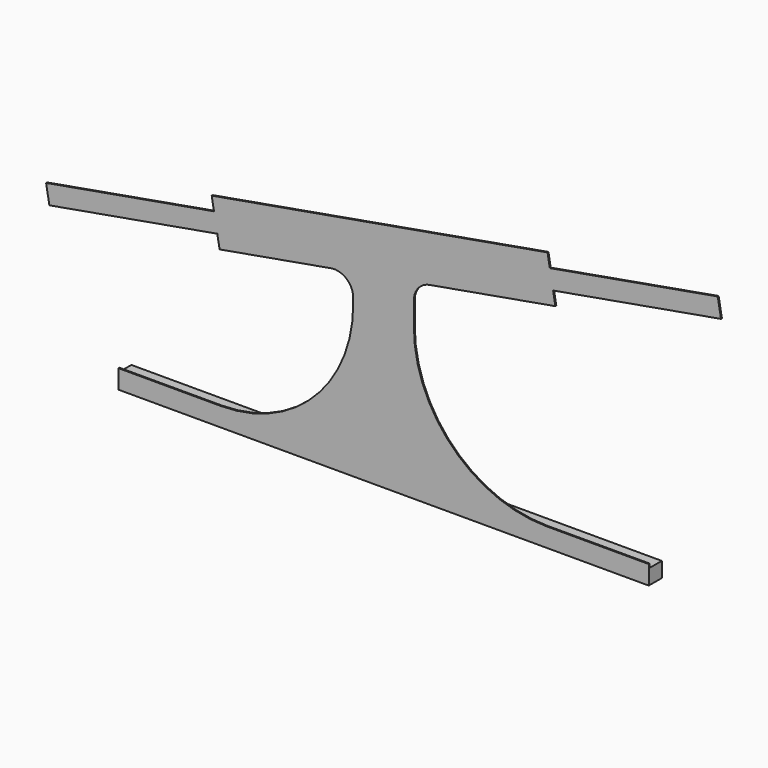
from build123d import *

# Parameters (mm, degrees)
F1_DEPTH = 3
F2_R     = 50
F3_W     = 1400
F3_H     = 40
F4_DEPTH = 40


with BuildPart() as f1:
    # F0 (on Front) → F1 (new body)
    with BuildSketch(Plane.XZ):
        with BuildLine():
            Line((80, 503.1805617435), (-80, 474.9682448302))
            Line((-80, 474.9682448302), (-80, 400))
            ThreePointArc((-80, 400), (-182.5126265847, 152.5126265847), (-430, 50))
            Line((-430, 50), (-700, 50))
            Line((-700, 50), (-700, 0))
            Line((-700, 0), (700, 0))
            Line((700, 0), (700, 50))
            Line((700, 50), (430, 50))
            ThreePointArc((430, 50), (182.5126265847, 152.5126265847), (80, 400))
            Line((80, 400), (80, 503.1805617435))
        make_face()
        with BuildLine():
            Line((-881.9857732693, 369.0964462745), (-492.5372057432, 437.7667363276))
            ThreePointArc((-492.5372057432, 437.7667363276), (-502.2519540362, 461.4394293899), (-501.2196146265, 487.0071239782))
            Line((-501.2196146265, 487.0071239782), (-890.6681821527, 418.3368339251))
            Line((-890.6681821527, 418.3368339251), (-881.9857732693, 369.0964462745))
        make_face()
        with BuildLine():
            Line((-438.8222844138, 447.2381262246), (-443.1634888555, 471.8583200499))
            Line((-443.1634888555, 471.8583200499), (-447.5046932972, 496.4785138752))
            Line((-447.5046932972, 496.4785138752), (-501.2196146265, 487.0071239782))
            ThreePointArc((-501.2196146265, 487.0071239782), (-502.2519540362, 461.4394293899), (-492.5372057432, 437.7667363276))
            Line((-492.5372057432, 437.7667363276), (-438.8222844138, 447.2381262246))
        make_face()
        with BuildLine():
            ThreePointArc((-383.1634888555, 471.8583200499), (-383.39180697, 477.0876646147), (-384.0750236748, 482.2772107099))
            Line((-384.0750236748, 482.2772107099), (-443.1634888555, 471.8583200499))
            Line((-443.1634888555, 471.8583200499), (-438.8222844138, 447.2381262246))
            Line((-438.8222844138, 447.2381262246), (-385.1073630845, 456.7095161216))
            ThreePointArc((-385.1073630845, 456.7095161216), (-383.6514415614, 464.2218138547), (-383.1634888555, 471.8583200499))
        make_face()
        with BuildLine():
            Line((-443.1634888555, 471.8583200499), (-384.0750236748, 482.2772107099))
            ThreePointArc((-384.0750236748, 482.2772107099), (-387.6557386402, 494.6374698592), (-393.7897719678, 505.9499037722))
            Line((-393.7897719678, 505.9499037722), (-447.5046932972, 496.4785138752))
            Line((-447.5046932972, 496.4785138752), (-443.1634888555, 471.8583200499))
        make_face()
        with BuildLine():
            Line((-393.7897719678, 505.9499037722), (-4.3412044417, 574.6201938253))
            Line((-4.3412044417, 574.6201938253), (-10.41889066, 609.0884651807))
            Line((-10.41889066, 609.0884651807), (-453.5823795155, 530.9467852306))
            ThreePointArc((-453.5823795155, 530.9467852306), (-420.0208735696, 527.2155179354), (-393.7897719678, 505.9499037722))
        make_face()
        with BuildLine():
            Line((-80, 535.8938415433), (-80, 550))
            Line((-80, 550), (0, 550))
            Line((0, 550), (-4.3412044417, 574.6201938253))
            Line((-4.3412044417, 574.6201938253), (-393.7897719678, 505.9499037722))
            ThreePointArc((-393.7897719678, 505.9499037722), (-387.6557386402, 494.6374698592), (-384.0750236748, 482.2772107099))
            Line((-384.0750236748, 482.2772107099), (-80, 535.8938415433))
        make_face()
        with BuildLine():
            Line((-80, 510.5081762462), (-80, 535.8938415433))
            Line((-80, 535.8938415433), (-384.0750236748, 482.2772107099))
            ThreePointArc((-384.0750236748, 482.2772107099), (-383.39180697, 477.0876646147), (-383.1634888555, 471.8583200499))
            ThreePointArc((-383.1634888555, 471.8583200499), (-383.6514415614, 464.2218138547), (-385.1073630845, 456.7095161216))
            Line((-385.1073630845, 456.7095161216), (-80, 510.5081762462))
        make_face()
        with BuildLine():
            Line((-80, 474.9682448302), (-80, 510.5081762462))
            Line((-80, 510.5081762462), (-385.1073630845, 456.7095161216))
            ThreePointArc((-385.1073630845, 456.7095161216), (-402.4832672908, 427.7548102865), (-432.7445981955, 412.7698548691))
            Line((-432.7445981955, 412.7698548691), (-80, 474.9682448302))
        make_face()
        Polygon((80, 538.7204931595), (-80, 510.5081762462), (-80, 474.9682448302), (80, 503.1805617435), align=None)
        Polygon((0, 550), (-80, 535.8938415433), (-80, 510.5081762462), (80, 538.7204931595), (80, 550), align=None)
        Polygon((0, 550), (-80, 550), (-80, 535.8938415433), align=None)
        with BuildLine():
            Line((443.1634888555, 628.1416799501), (384.0750236748, 617.7227892901))
            ThreePointArc((384.0750236748, 617.7227892901), (387.6557386402, 605.3625301408), (393.7897719678, 594.0500962278))
            Line((393.7897719678, 594.0500962278), (447.5046932972, 603.5214861248))
            Line((447.5046932972, 603.5214861248), (443.1634888555, 628.1416799501))
        make_face()
        with BuildLine():
            Line((-4.3412044417, 574.6201938253), (0, 550))
            Line((0, 550), (384.0750236748, 617.7227892901))
            ThreePointArc((384.0750236748, 617.7227892901), (383.2123374991, 630.5623102494), (385.1073630845, 643.2904838784))
            Line((385.1073630845, 643.2904838784), (-4.3412044417, 574.6201938253))
        make_face()
        with BuildLine():
            Line((447.5046932972, 603.5214861248), (393.7897719678, 594.0500962278))
            ThreePointArc((393.7897719678, 594.0500962278), (420.0208735696, 572.7844820646), (453.5823795155, 569.0532147694))
            Line((453.5823795155, 569.0532147694), (447.5046932972, 603.5214861248))
        make_face()
        with BuildLine():
            ThreePointArc((432.7445981955, 687.2301451309), (402.4832672908, 672.2451897135), (385.1073630845, 643.2904838784))
            Line((385.1073630845, 643.2904838784), (438.8222844138, 652.7618737754))
            Line((438.8222844138, 652.7618737754), (432.7445981955, 687.2301451309))
        make_face()
        with BuildLine():
            Line((393.7897719678, 594.0500962278), (80, 538.7204931595))
            Line((80, 538.7204931595), (80, 503.1805617435))
            Line((80, 503.1805617435), (453.5823795155, 569.0532147694))
            ThreePointArc((453.5823795155, 569.0532147694), (420.0208735696, 572.7844820646), (393.7897719678, 594.0500962278))
        make_face()
        with BuildLine():
            ThreePointArc((385.1073630845, 643.2904838784), (383.2123374991, 630.5623102494), (384.0750236748, 617.7227892901))
            Line((384.0750236748, 617.7227892901), (443.1634888555, 628.1416799501))
            Line((443.1634888555, 628.1416799501), (438.8222844138, 652.7618737754))
            Line((438.8222844138, 652.7618737754), (385.1073630845, 643.2904838784))
        make_face()
        with BuildLine():
            Line((384.0750236748, 617.7227892901), (0, 550))
            Line((0, 550), (80, 550))
            Line((80, 550), (80, 538.7204931595))
            Line((80, 538.7204931595), (393.7897719678, 594.0500962278))
            ThreePointArc((393.7897719678, 594.0500962278), (387.6557386402, 605.3625301408), (384.0750236748, 617.7227892901))
        make_face()
        with BuildLine():
            Line((-10.41889066, 609.0884651807), (-4.3412044417, 574.6201938253))
            Line((-4.3412044417, 574.6201938253), (385.1073630845, 643.2904838784))
            ThreePointArc((385.1073630845, 643.2904838784), (402.4832672908, 672.2451897135), (432.7445981955, 687.2301451309))
            Line((432.7445981955, 687.2301451309), (-10.41889066, 609.0884651807))
        make_face()
        with BuildLine():
            Line((881.9857732693, 730.9035537255), (492.5372057432, 662.2332636724))
            ThreePointArc((492.5372057432, 662.2332636724), (500.4453490438, 645.9963290189), (503.1634888555, 628.1416799501))
            ThreePointArc((503.1634888555, 628.1416799501), (502.6755361496, 620.5051737549), (501.2196146265, 612.9928760218))
            Line((501.2196146265, 612.9928760218), (890.6681821527, 681.6631660749))
            Line((890.6681821527, 681.6631660749), (881.9857732693, 730.9035537255))
        make_face()
        with BuildLine():
            Line((438.8222844138, 652.7618737754), (443.1634888555, 628.1416799501))
            Line((443.1634888555, 628.1416799501), (447.5046932972, 603.5214861248))
            Line((447.5046932972, 603.5214861248), (501.2196146265, 612.9928760218))
            ThreePointArc((501.2196146265, 612.9928760218), (502.6755361496, 620.5051737549), (503.1634888555, 628.1416799501))
            ThreePointArc((503.1634888555, 628.1416799501), (500.4453490438, 645.9963290189), (492.5372057432, 662.2332636724))
            Line((492.5372057432, 662.2332636724), (438.8222844138, 652.7618737754))
        make_face()
        with BuildLine():
            Line((-447.5046932972, 496.4785138752), (-393.7897719678, 505.9499037722))
            ThreePointArc((-393.7897719678, 505.9499037722), (-420.0208735696, 527.2155179354), (-453.5823795155, 530.9467852306))
            Line((-453.5823795155, 530.9467852306), (-447.5046932972, 496.4785138752))
        make_face()
        with BuildLine():
            ThreePointArc((-432.7445981955, 412.7698548691), (-402.4832672908, 427.7548102865), (-385.1073630845, 456.7095161216))
            Line((-385.1073630845, 456.7095161216), (-438.8222844138, 447.2381262246))
            Line((-438.8222844138, 447.2381262246), (-432.7445981955, 412.7698548691))
        make_face()
    extrude(amount=F1_DEPTH)

    # F2
    f2_edges = [f1.edges().sort_by_distance(p)[0] for p in [
        (-80, -1.5, 474.968245),
        (80, -1.5, 503.180562),
    ]]
    fillet(f2_edges, radius=F2_R)

    # F3 (on face) → F4 (join)
    with BuildSketch(Plane.XZ):
        with Locations((0, 20)):
            Rectangle(F3_W, F3_H)
    extrude(amount=-F4_DEPTH)


solid = f1.part
